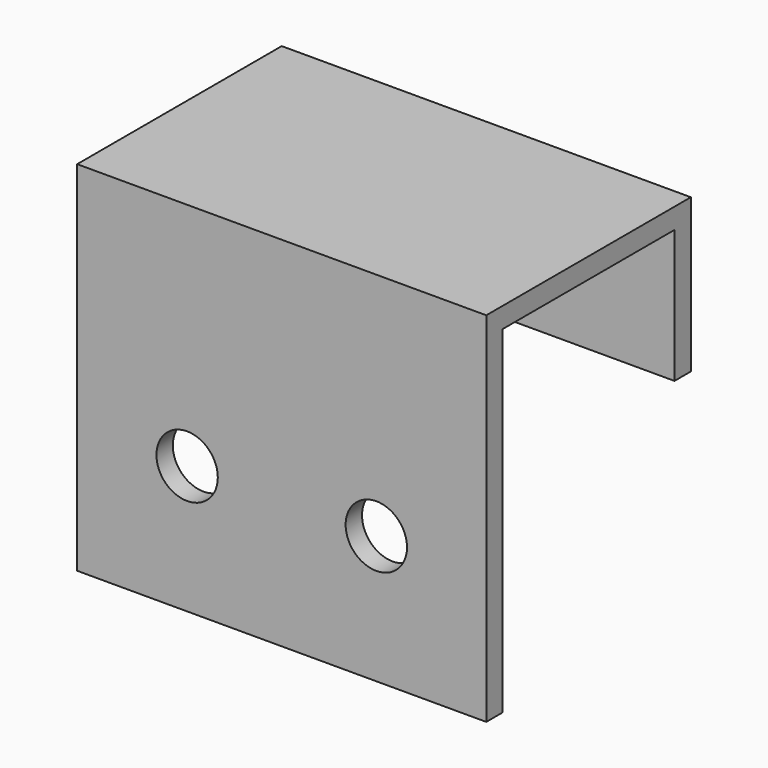
from build123d import *

# Parameters (mm, degrees)
PAD004_DEPTH = 20
SKETCH013_R  = 3
HOLE_DEPTH   = 25
HOLE_TIPS_R  = 3


with BuildPart() as part:
    # Sketch014 → Pad004 (new body, symmetric)
    with BuildSketch(Plane.YZ):
        Polygon((0, -35), (0, 0), (25, 0), (25, -15), (23, -15), (23, -2), (2, -2), (2, -35), align=None)
    extrude(amount=PAD004_DEPTH, both=True)

    # Sketch013 → Hole (cut)
    with BuildSketch(Plane.XZ):
        with Locations((-9.25, -22.5)):
            Circle(SKETCH013_R)
        with Locations((9.25, -22.5)):
            Circle(SKETCH013_R)
    extrude(amount=-HOLE_DEPTH, mode=Mode.SUBTRACT)

    # Hole tips → Hole tip 1 section 0
    with BuildSketch(Plane.XZ.offset(-25), mode=Mode.PRIVATE) as hole_tip_1_s0:
        with Locations((-9.25, -22.5)):
            Circle(HOLE_TIPS_R)
    loft([hole_tip_1_s0.sketch, Vertex(-9.25, 26.802582, -22.5)], mode=Mode.SUBTRACT)

    # Hole tips → Hole tip 2 section 0
    with BuildSketch(Plane.XZ.offset(-25), mode=Mode.PRIVATE) as hole_tip_2_s0:
        with Locations((9.25, -22.5)):
            Circle(HOLE_TIPS_R)
    loft([hole_tip_2_s0.sketch, Vertex(9.25, 26.802582, -22.5)], mode=Mode.SUBTRACT)


with BuildPart() as part_1:
    # Body009 placement: moved
    add(part.part.moved(Location((0, 83, 0))))


with BuildPart() as part_2:
    # Clone010 placement: moved
    add(part_1.part.moved(Location((0, -83, 0))))


with BuildPart() as part_3:
    # Body013 placement: moved
    add(part_2.part.moved(Location((-225, 83, 50))))


solid = part_3.part
